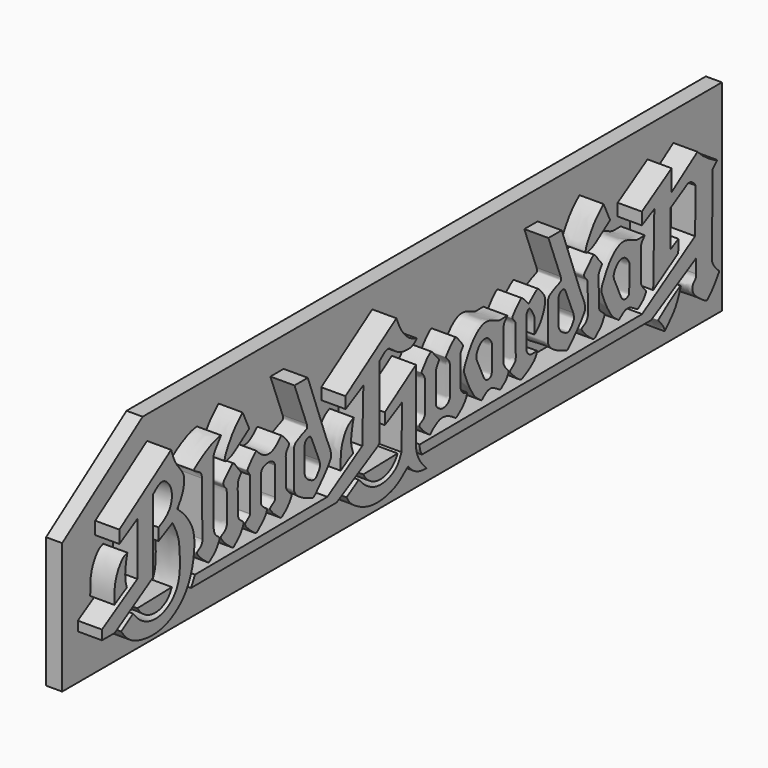
from build123d import *

# Parameters (mm, degrees)
F1_DEPTH = 6
F3_DEPTH = 4


with BuildPart() as f1:
    # F0 (on Right) → F1 (new body)
    with BuildSketch(Plane.YZ):
        with BuildLine():
            Line((-84.7309954264, 8.2328420567), (-84.7309954264, 5.0792008141))
            Line((-84.7309954264, 5.0792008141), (-79.1306622126, 8.3093828024))
            Line((-79.1306622126, 8.3093828024), (-79.1306622126, -4.8412360748))
            Line((-79.1306622126, -4.8412360748), (-90.1365183093, -11.4466186179))
            Line((-90.1365183093, -11.4466186179), (-90.1365183093, -13.8046836046))
            Line((-90.1365183093, -13.8046836046), (-86.1686222055, -13.8046836046))
            Line((-86.1686222055, -13.8046836046), (-74.2875985601, -6.503750713))
            Line((-74.2875985601, -6.503750713), (-74.2875985601, 11.6509030076))
            add(Edge.make_bspline(
                [(-74.2875985601, 11.6509030076), (-73.6770413389, 12.1872054593), (-72.5645492563, 13.1643984407), (-70.7850166705, 13.5392047347), (-68.2985762895, 11.1995753503), (-68.2558259198, 6.9454701251), (-70.6824470038, 4.6531191112), (-71.9849036134, 4.0415345668), (-72.5665069916, 3.7684355365)],
                knots=[0, 0, 0, 0, 0.1565342701, 0.285220009, 0.4640966276, 0.669678292, 0.8524970276, 1, 1, 1, 1], degree=3))
            Line((-72.5665069916, 3.7684355365), (-72.5665069916, 0.7612194485))
            Line((-72.5665069916, 0.7612194485), (-68.2305298545, 2.9991474902))
            add(Edge.make_bspline(
                [(-80.4735846617, -11.9029415337), (-79.7877134513, -12.7400023358), (-78.3288210959, -14.5204847162), (-74.2505011058, -16.3174080883), (-69.3162018574, -15.2070625251), (-65.8052000731, -11.1370701219), (-65.9050690901, -4.8608956053), (-66.2272665967, -0.6926975539), (-67.5658776427, 1.7742495819), (-68.2305298545, 2.9991474902)],
                knots=[0, 0, 0, 0, 0.1228895466, 0.2613940014, 0.4082955917, 0.5588208746, 0.7252034285, 0.8635569685, 1, 1, 1, 1], degree=3))
            Line((-80.4735846617, -11.9029415337), (-84.1859184005, -14.2765204919))
            add(Edge.make_bspline(
                [(-66.7487211325, 5.449245541), (-65.9816964164, 4.7701727584), (-64.3012645765, 3.2824299238), (-61.6110302694, -0.6550175088), (-61.267551604, -4.8358337652), (-61.9539087788, -9.6992858235), (-64.1676496599, -14.7178351878), (-69.1736645659, -18.4710581517), (-74.9657284077, -19.5033086839), (-81.5561561095, -17.9067465883), (-83.3702052624, -15.402562618), (-84.1859184005, -14.2765204919)],
                knots=[0, 0, 0, 0, 0.0903003946, 0.197834118, 0.2995790035, 0.4097711655, 0.5260204849, 0.6482729982, 0.7696947904, 0.8964399697, 1, 1, 1, 1], degree=3))
            add(Edge.make_bspline(
                [(-68.640371392, 19.1493489282), (-68.2366150354, 17.9298411728), (-67.4577846012, 15.5774577638), (-65.1038417423, 13.1042238367), (-64.3512403991, 11.0862629076), (-65.0617972814, 7.7823809992), (-66.1954018279, 6.2145254252), (-66.7487211325, 5.449245541)],
                knots=[0, 0, 0, 0, 0.2245199877, 0.4330903938, 0.5978615967, 0.8037137886, 1, 1, 1, 1], degree=3))
            Line((-68.640371392, 19.1493489282), (-84.7309954264, 8.2328420567))
        make_face()
    extrude(amount=F1_DEPTH)



with BuildPart() as f1b:
    # F0 (on Right) → F1, piece 2 (new body)
    with BuildSketch(Plane.YZ):
        with BuildLine():
            Line((-68.4009097316, -10.9817396415), (-79.1359744766, -11.2614810033))
            add(Edge.make_bspline(
                [(-68.4009097316, -10.9817396415), (-68.7800779618, -11.7310047208), (-69.5794552854, -13.3106347265), (-72.5748688801, -14.7073932458), (-75.7487166243, -14.3731517811), (-78.0241300236, -12.8475968844), (-78.7865365911, -11.7599760744), (-79.1359744766, -11.2614810033)],
                knots=[0, 0, 0, 0, 0.195690164, 0.4125616734, 0.6304014073, 0.8305998975, 1, 1, 1, 1], degree=3))
        make_face()
    extrude(amount=F1_DEPTH)


with BuildPart() as f1c:
    # F0 (on Right) → F1, piece 3 (new body)
    with BuildSketch(Plane.YZ):
        with BuildLine():
            Line((-86.2847618558, -7.6147258779), (-82.3990233042, -5.3902819319))
            add(Edge.make_bspline(
                [(-82.3990233042, -5.3902819319), (-82.5487475722, -4.9462154411), (-82.9035389694, -3.8939413315), (-82.9784371707, -0.9818316887), (-82.4857884723, 1.0945263539), (-82.2300813892, 2.1722506235)],
                knots=[0, 0, 0, 0, 0.2598930359, 0.615850821, 1, 1, 1, 1], degree=3))
            add(Edge.make_bspline(
                [(-86.2847618558, -7.6147258779), (-86.300358225, -6.9093341788), (-86.3345526471, -5.3627907951), (-86.0438231425, -2.2118548216), (-84.7210882989, 0.3900523163), (-83.4334528555, 1.8208679727), (-82.6011272368, 2.0639057963), (-82.2300813892, 2.1722506235)],
                knots=[0, 0, 0, 0, 0.2008436881, 0.4403418376, 0.671264154, 0.8534515003, 1, 1, 1, 1], degree=3))
        make_face()
    extrude(amount=F1_DEPTH)


with BuildPart() as f1d:
    # F0 (on Right) → F1, piece 4 (new body)
    with BuildSketch(Plane.YZ):
        with BuildLine():
            add(Edge.make_bspline(
                [(-59.1079570153, 9.055748439), (-59.1147978988, 9.4271617155), (-59.1286413937, 10.1787689921), (-60.0998720969, 10.8704526238), (-61.0600895505, 11.3373926927), (-61.7621835569, 11.8701383467), (-60.4832258977, 12.7418655089), (-58.3067534941, 14.2581264831), (-54.9374520356, 15.8274767579), (-53.6433314114, 15.9526502787), (-53.1153283813, 16.0037212508)],
                knots=[0, 0, 0, 0, 0.1034452608, 0.2093361107, 0.3171300918, 0.3940521526, 0.5013408021, 0.6724526514, 0.8663602223, 1, 1, 1, 1], degree=3))
            Line((-59.1079570153, 9.055748439), (-58.9111126759, -4.413704065))
            add(Edge.make_bspline(
                [(-58.9111126759, -4.413704065), (-58.939373306, -4.7610201216), (-58.9992479538, -5.4968645281), (-60.1154798954, -6.2262329503), (-60.763963063, -6.5330319019), (-60.4115449387, -7.1998891199), (-59.7660644067, -7.892126517), (-58.9818172008, -8.7782166106), (-57.4303028197, -9.9539605116), (-56.9958322928, -10.3232994428), (-56.3394527837, -9.8684578048), (-54.7933545131, -8.7671504807), (-53.7264431634, -6.8915375441), (-53.5194572234, -6.3243786199), (-53.8051428992, -5.9055951348), (-54.5669534537, -5.4134587683), (-55.1354626549, -4.7085806105), (-55.3652396775, -3.8356273737), (-55.4311038063, -3.4486053864), (-55.460268239, -3.2772332461)],
                knots=[0, 0, 0, 0, 0.0614896478, 0.1302756165, 0.1764452992, 0.2226326339, 0.2816632221, 0.3499567614, 0.4344892419, 0.475886674, 0.5243136042, 0.609877147, 0.6989898158, 0.7425542477, 0.7821814834, 0.839752922, 0.8978878036, 0.9547850349, 1, 1, 1, 1], degree=3))
            Line((-55.460268239, -3.2772332461), (-55.460268239, 11.9217865603))
            add(Edge.make_bspline(
                [(-53.1153283813, 16.0037212508), (-53.3595527635, 15.6728727317), (-53.88578301, 14.9599934679), (-54.9560810347, 13.6201510512), (-55.4834471501, 12.6607107976), (-55.4674251609, 12.149943227), (-55.460268239, 11.9217865603)],
                knots=[0, 0, 0, 0, 0.2637696283, 0.5683443859, 0.8071821475, 1, 1, 1, 1], degree=3))
        make_face()
    extrude(amount=F1_DEPTH)


with BuildPart() as f1e:
    # F0 (on Right) → F1, piece 5 (new body)
    with BuildSketch(Plane.YZ):
        with BuildLine():
            Line((-44.3796008625, 13.9470164167), (-46.4298665323, 18.2986006575))
            add(Edge.make_bspline(
                [(-46.4298665323, 18.2986006575), (-46.798961288, 17.9678812707), (-47.6285006371, 17.2245904474), (-49.3731421978, 15.3702686626), (-50.405393918, 13.6886264223), (-51.6736046269, 11.5708317256), (-51.9413158224, 10.6057702713), (-52.1253728152, 9.7182706417), (-50.9982769114, 9.806567105), (-49.5661061756, 10.3574528657), (-48.257989822, 11.1636776354), (-46.7740542865, 12.2724063494), (-45.448015214, 13.2301761375), (-44.7196748936, 13.7188476701), (-44.3796008625, 13.9470164167)],
                knots=[0, 0, 0, 0, 0.0850588996, 0.19116962, 0.2889341444, 0.3931016479, 0.4623128318, 0.5156066694, 0.5771834712, 0.6623150608, 0.7462599244, 0.837957546, 0.9243397228, 1, 1, 1, 1], degree=3))
        make_face()
    extrude(amount=F1_DEPTH)


with BuildPart() as f1f:
    # F0 (on Right) → F1, piece 6 (new body)
    with BuildSketch(Plane.YZ):
        with BuildLine():
            add(Edge.make_bspline(
                [(-49.3588164248, 8.3401676702), (-49.6752054941, 8.3917952679), (-50.4059514531, 7.5688558241), (-51.431765246, 6.4617284351), (-53.0282091999, 5.1110999973), (-51.2963093829, 3.6761626498), (-51.442316327, 2.8655372027), (-51.1408052109, -4.0475212956), (-51.4324963404, -4.5656454816), (-51.8756528924, -5.6150223479), (-53.5600648271, -6.10190539), (-52.822321505, -7.0488680871), (-51.5045333484, -8.5834499841), (-50.3849461825, -9.3287643378), (-49.3942025371, -10.2943468589), (-48.6103415681, -9.4433947574), (-47.0002689914, -8.1840248219), (-46.3329729175, -6.5333763931), (-45.8667319949, -5.908402123), (-47.130309314, -5.0383974843), (-47.7841986068, -4.3651760891), (-47.8497834408, -3.2663674976), (-48.0064092342, 3.1032153309), (-47.8740772165, 3.8324759565), (-47.2455779169, 4.8600860891), (-46.9181073426, 5.142552279), (-46.9635361123, 5.6656047884), (-48.2113605316, 6.8192766042), (-48.9597689885, 8.2750520814), (-49.3588164248, 8.3401676702)],
                knots=[0, 0, 0, 0, 0.033526546, 0.0744404801, 0.1139108976, 0.1533813173, 0.1846242566, 0.2647456302, 0.2904681605, 0.3217637461, 0.3583069445, 0.3860968733, 0.4308974156, 0.4683899973, 0.5008471631, 0.5302733896, 0.5754602709, 0.6166968715, 0.6400030508, 0.6758935707, 0.7049957837, 0.7382171672, 0.8157415128, 0.8452799632, 0.877522246, 0.8972757917, 0.9164561684, 0.9577144613, 1, 1, 1, 1], degree=3))
        make_face()
    extrude(amount=F1_DEPTH)


with BuildPart() as f1g:
    # F0 (on Right) → F1, piece 7 (new body)
    with BuildSketch(Plane.YZ):
        with BuildLine():
            add(Edge.make_bspline(
                [(-33.0321542718, 3.3449191569), (-32.9781755654, 3.6504588722), (-32.8680101704, 4.2740363098), (-32.1822159462, 5.0856620235), (-31.9559938242, 5.3812546431), (-32.0218477707, 5.8185962713), (-33.1544060689, 7.2298294678), (-33.9923202877, 8.0585300916), (-34.2885126598, 8.3417109615), (-34.7220632441, 8.1163718722), (-35.3602261314, 7.332982965), (-36.5410381901, 6.4400963953), (-37.600005655, 5.9505381921), (-38.7806136124, 5.9185562893), (-40.1589958515, 6.357803413), (-41.3380376509, 7.2830695412), (-41.8448851807, 7.9046673754), (-41.9906708665, 8.0653094563), (-42.1597175328, 8.1487170936), (-42.4318409241, 7.9819011985), (-43.1874572495, 7.3227796145), (-43.8883955709, 6.5112071363), (-44.5908873341, 5.633204688), (-44.8822002145, 5.2317567627), (-45.0046517611, 5.0313794229), (-44.8129830118, 4.7072942583), (-44.5285119025, 4.2386310319), (-44.3233731145, 3.9909746092), (-44.188027932, 3.7659086879), (-44.1172174909, 3.6481577872)],
                knots=[0, 0, 0, 0, 0.0431269326, 0.0880179589, 0.1134424571, 0.1398764869, 0.1996251257, 0.2488490891, 0.2737010234, 0.3011121683, 0.3456818847, 0.3998366761, 0.4471681111, 0.4940048162, 0.5470782897, 0.6017359578, 0.6402004223, 0.6598880589, 0.6769968342, 0.700153791, 0.7439443974, 0.7914437451, 0.8382804823, 0.8688084908, 0.8880175134, 0.9139950987, 0.9470569417, 0.9723010362, 1, 1, 1, 1], degree=3))
            Line((-44.1172174909, 3.6481577872), (-44.1172174909, -4.8088339655))
            add(Edge.make_bspline(
                [(-40.7478973069, -3.6632650563), (-40.7263199263, -3.892908787), (-40.6785822295, -4.400971512), (-39.899551984, -5.0708756414), (-39.1605429573, -5.6949920992), (-38.7567162061, -5.8492414962), (-38.9630521857, -6.3590844266), (-39.3970452976, -7.4757988652), (-41.4082617283, -9.2553083449), (-42.0243633982, -9.7708437509), (-42.374817708, -9.7400684534), (-42.904537037, -9.5087366991), (-45.1932029595, -7.4712922669), (-45.6235677836, -6.7799177295), (-45.7023903975, -6.3462598422), (-45.2364565565, -6.0087597698), (-44.5420049796, -5.4038877128), (-44.0545479167, -5.1226255011), (-44.0986415561, -4.9018451462), (-44.1172174909, -4.8088339655)],
                knots=[0, 0, 0, 0, 0.0549634673, 0.1216009202, 0.187563015, 0.2253822094, 0.2673131696, 0.340922318, 0.4501662746, 0.5074462755, 0.5412726086, 0.5910083925, 0.7069302061, 0.7677808506, 0.8056418104, 0.8535209913, 0.9188957162, 0.9658320813, 1, 1, 1, 1], degree=3))
            Line((-40.7478973069, -3.6632650563), (-40.7478973069, 2.6710551201))
            add(Edge.make_bspline(
                [(-40.7478973069, 2.6710551201), (-40.6374030845, 2.9935812125), (-40.4029253005, 3.6780079803), (-39.1189661085, 4.0770367161), (-37.8110145046, 4.2015850887), (-36.6461472756, 3.5795098874), (-36.4345531445, 2.9178342087), (-36.3340876796, 2.6036688095)],
                knots=[0, 0, 0, 0, 0.1858828484, 0.3944586192, 0.6102710995, 0.8149556655, 1, 1, 1, 1], degree=3))
            Line((-36.3340876796, 2.6036688095), (-36.3340876796, -4.3371288603))
            add(Edge.make_bspline(
                [(-32.8939385512, -3.7697052149), (-32.7984547166, -3.9842484899), (-32.5975140322, -4.4357434754), (-32.0322874749, -5.0786459223), (-31.4277399723, -5.5993376492), (-31.0806973698, -5.7919039149), (-31.2940290888, -6.2721138378), (-31.8258062359, -7.3670275896), (-33.2063117015, -8.834759033), (-34.036716204, -9.3556357012), (-34.4695680525, -9.7046936412), (-34.8207881226, -9.4037893286), (-35.6771230406, -8.7313053733), (-36.9457872526, -7.7487491506), (-37.7737794692, -6.5961724385), (-38.0254923815, -6.2728806549), (-37.7045746187, -5.9172694652), (-36.945657289, -5.4595443475), (-36.2407302554, -4.9260559845), (-36.3487250268, -4.5539488093), (-36.33862802, -4.404383969), (-36.3340876796, -4.3371288603)],
                knots=[0, 0, 0, 0, 0.0518932284, 0.1092065571, 0.1644154239, 0.198617773, 0.2374480323, 0.306059988, 0.3939317135, 0.4554313512, 0.496137477, 0.5330361798, 0.5966599219, 0.6770902414, 0.7496607473, 0.7840527615, 0.8216699332, 0.8817792722, 0.9373120838, 0.9718110045, 1, 1, 1, 1], degree=3))
            Line((-32.8939385512, -3.7697052149), (-33.0321542718, 3.3449191569))
        make_face()
    extrude(amount=F1_DEPTH)


with BuildPart() as f1h:
    # F0 (on Right) → F1, piece 8 (new body)
    with BuildSketch(Plane.YZ):
        with BuildLine():
            Line((-30.3102336624, 17.6546637403), (-26.5067197182, 7.6772476049))
            add(Edge.make_bspline(
                [(-26.5067197182, 7.6772476049), (-26.4473762315, 7.4753106944), (-26.3371304149, 7.100160853), (-26.3816821785, 6.5315032302), (-27.5928674228, 6.210876395), (-28.8080759493, 5.5930686752), (-29.9202396114, 5.1015434428), (-30.4930514164, 4.2700178232), (-30.3893570751, 3.4746840447), (-30.4220517127, -5.1470391845), (-30.4442418305, -5.4382441426), (-29.812255446, -6.8009378276), (-27.204598765, -8.3377688994), (-25.1212833745, -9.1227497856), (-24.7291392812, -9.2541620707), (-24.2705323933, -9.2495859391), (-22.8726787655, -7.7520537301), (-20.6853353775, -5.4048813923), (-18.9742340121, -3.0284954935), (-18.8885160468, -2.3203080185), (-19.0672435888, -1.1385717074), (-19.5033151296, -0.0094099763), (-20.046605225, 1.2237471775), (-20.3550211885, 1.923788196)],
                knots=[0, 0, 0, 0, 0.0309594908, 0.057515231, 0.099705843, 0.1476297936, 0.1913865155, 0.2272024934, 0.2669290492, 0.3821334541, 0.4075600956, 0.4513162432, 0.522660494, 0.581253142, 0.6048785146, 0.6281856603, 0.6823882604, 0.7575263213, 0.8236983851, 0.8560477534, 0.8977595694, 0.9419599562, 1, 1, 1, 1], degree=3))
            Line((-20.3550211885, 1.923788196), (-26.1862776973, 17.6546637403))
            Line((-26.1862776973, 17.6546637403), (-30.3102336624, 17.6546637403))
        make_face()
        with BuildLine():
            add(Edge.make_bspline(
                [(-22.6185578652, -1.8594370022), (-22.553845701, -2.0956501595), (-22.4185868882, -2.5893735826), (-22.2068198039, -3.4587269351), (-23.5776247458, -5.2281390182), (-23.9769508215, -5.4064707998), (-24.6461640789, -5.4529381716), (-25.6096519993, -4.9793627986), (-26.4942916034, -4.4424179309), (-27.1865382602, -3.2996617903), (-27.1796526979, -2.7334497834), (-27.1766125955, -2.4834567712)],
                knots=[0, 0, 0, 0, 0.0976908507, 0.2041895623, 0.3701041977, 0.4457024852, 0.5340065638, 0.6515779739, 0.7697629391, 0.8983461042, 1, 1, 1, 1], degree=3))
            Line((-27.1766125955, -2.4834567712), (-27.1766125955, 3.1869810509))
            add(Edge.make_bspline(
                [(-27.1766125955, 3.1869810509), (-27.1333056014, 3.4448610548), (-27.0448468383, 3.9716061361), (-26.356927832, 4.5123547578), (-25.3551449236, 4.6104805467), (-25.1186573707, 4.1239440167), (-25.006109456, 3.8923941055)],
                knots=[0, 0, 0, 0, 0.2452716263, 0.5009912393, 0.7625143704, 1, 1, 1, 1], degree=3))
            Line((-25.006109456, 3.8923941055), (-22.6185578652, -1.8594370022))
        make_face(mode=Mode.SUBTRACT)
    extrude(amount=F1_DEPTH)


with BuildPart() as f1i:
    # F0 (on Right) → F1, piece 9 (new body)
    with BuildSketch(Plane.YZ):
        with BuildLine():
            Line((-12.2663784572, -4.7095377495), (-12.0797768035, -4.6469118943))
            add(Edge.make_bspline(
                [(-12.0797768035, -4.6469118943), (-12.3203825434, -3.9143857075), (-12.8124155026, -2.4163872499), (-12.6909836965, -0.2740236108), (-12.0284534216, 2.9945108894), (-11.8084169413, 3.1691038366), (-12.3311502285, 2.9893991409), (-13.9489941095, 2.0223646042), (-15.1229233188, 0.0023505211), (-15.8273578963, -2.0833465317), (-15.963864585, -4.0906500917), (-16.0164535724, -6.3648587952), (-15.9965722923, -6.6805321287), (-16.1086319214, -6.9831756407), (-13.7572398754, -5.3908999962), (-12.7434857745, -4.9275881395), (-12.2663784572, -4.7095377495)],
                knots=[0, 0, 0, 0, 0.0889767878, 0.1819553939, 0.2876230775, 0.3060413524, 0.3411303209, 0.4227116068, 0.5144047062, 0.6014055236, 0.6890329402, 0.7768914614, 0.8091212349, 0.8262095049, 0.918208255, 1, 1, 1, 1], degree=3))
        make_face()
    extrude(amount=F1_DEPTH)


with BuildPart() as f1j:
    # F0 (on Right) → F1, piece 10 (new body)
    with BuildSketch(Plane.YZ):
        with BuildLine():
            Line((1.7302133343, -10.2405186308), (-8.9168358394, -10.510063873))
            ThreePointArc((-8.9168358394, -10.510063873), (-3.5081151916, -13.7405394838), (1.7302133343, -10.2405186308))
        make_face()
    extrude(amount=F1_DEPTH)


with BuildPart() as f1k:
    # F0 (on Right) → F1, piece 11 (new body)
    with BuildSketch(Plane.YZ):
        with BuildLine():
            Line((-61.2304635146, -11.1786799071), (-62.4434180357, -13.6045898808))
            Line((-62.4434180357, -13.6045898808), (-17.1729378202, -13.2762409313))
            Line((-17.1729378202, -13.2762409313), (-4.4338885494, -6.1835242933))
            add(Edge.make_bspline(
                [(-4.4338885494, -6.1835242933), (-4.2677907177, -6.061275172), (-3.9355574672, -5.8167492653), (-3.8710192002, -5.4091751525), (-3.8387464159, -5.2053650407)],
                knots=[0, 0, 0, 0, 0.4999434328, 1, 1, 1, 1], degree=3))
            Line((-3.8387464159, -5.2053650407), (-3.8387464159, 12.2814018713))
            add(Edge.make_bspline(
                [(-3.8387464159, 12.2814018713), (-3.203548133, 12.8240476789), (-2.2252011876, 13.6598431818), (-1.5622431488, 13.8050124653), (-0.8923270798, 13.8641227479), (-0.1236734276, 13.2520790059), (0.8995514994, 12.4322739208), (2.6571141164, 11.4004396176), (4.531584012, 11.2117636238), (6.2854841505, 11.231220529), (7.4759001982, 12.216611091), (7.5975605106, 12.4837495518), (7.7372053836, 12.6195328913), (5.7887663742, 13.0639801039), (4.1435616889, 14.6011802238), (2.7309571673, 16.2677870645), (1.5579465795, 18.9005843456), (1.3991310384, 19.3487495221), (1.3497843608, 19.4880020308)],
                knots=[0, 0, 0, 0, 0.0814978398, 0.1255248397, 0.1684789577, 0.2216669519, 0.2860421817, 0.3646997828, 0.4410098174, 0.5149233004, 0.5811942032, 0.6094916218, 0.6234507213, 0.6945928715, 0.7807475208, 0.865332679, 0.9581565832, 1, 1, 1, 1], degree=3))
            Line((1.3497843608, 19.4880020308), (-14.4862672902, 8.8785151023))
            Line((-14.4862672902, 8.8785151023), (-14.4134886362, 6.0037550019))
            Line((-14.4134886362, 6.0037550019), (-8.9168358394, 8.9610645982))
            Line((-8.9168358394, 8.9610645982), (-9.2585464739, -4.1433443813))
            Line((-9.2585464739, -4.1433443813), (-20.1110575148, -10.871902251))
            Line((-20.1110575148, -10.871902251), (-61.2304635146, -11.1786799071))
        make_face()
    extrude(amount=F1_DEPTH)


with BuildPart() as f1l:
    # F0 (on Right) → F1, piece 12 (new body)
    with BuildSketch(Plane.YZ):
        with BuildLine():
            Line((48.5943615637, 17.8489627751), (52.3978755078, 7.8715466397))
            add(Edge.make_bspline(
                [(52.3978755078, 7.8715466397), (52.4572189945, 7.6696097292), (52.5674648112, 7.2944598877), (52.5229130476, 6.725802265), (51.3117278033, 6.4051754298), (50.0965192767, 5.7873677099), (48.9843556147, 5.2958424776), (48.4115438096, 4.464316858), (48.5152381509, 3.6689830794), (48.4825435133, -4.9527401497), (48.4603533955, -5.2439451078), (49.09233978, -6.6066387928), (51.699996461, -8.1434698647), (53.7833118515, -8.9284507508), (54.1754559448, -9.059863036), (54.6340628328, -9.0552869043), (56.0319164606, -7.5577546953), (58.2192598486, -5.2105823575), (59.930361214, -2.8341964587), (60.0160791792, -2.1260089837), (59.8373516372, -0.9442726727), (59.4012800964, 0.1848890585), (58.8579900011, 1.4180462122), (58.5495740376, 2.1180872308)],
                knots=[0, 0, 0, 0, 0.0309594908, 0.057515231, 0.099705843, 0.1476297936, 0.1913865155, 0.2272024934, 0.2669290492, 0.3821334541, 0.4075600956, 0.4513162432, 0.522660494, 0.581253142, 0.6048785146, 0.6281856603, 0.6823882604, 0.7575263213, 0.8236983851, 0.8560477534, 0.8977595694, 0.9419599562, 1, 1, 1, 1], degree=3))
            Line((58.5495740376, 2.1180872308), (52.7183175287, 17.8489627751))
            Line((52.7183175287, 17.8489627751), (48.5943615637, 17.8489627751))
        make_face()
        with BuildLine():
            add(Edge.make_bspline(
                [(56.2860373608, -1.6651379675), (56.350749525, -1.9013511247), (56.4860083379, -2.3950745478), (56.6977754222, -3.2644279004), (55.3269704803, -5.0338399835), (54.9276444045, -5.212171765), (54.2584311472, -5.2586391368), (53.2949432268, -4.7850637638), (52.4103036226, -4.2481188961), (51.7180569658, -3.1053627555), (51.7249425281, -2.5391507487), (51.7279826305, -2.2891577365)],
                knots=[0, 0, 0, 0, 0.0976908507, 0.2041895623, 0.3701041977, 0.4457024852, 0.5340065638, 0.6515779739, 0.7697629391, 0.8983461042, 1, 1, 1, 1], degree=3))
            Line((51.7279826305, -2.2891577365), (51.7279826305, 3.3812800856))
            add(Edge.make_bspline(
                [(51.7279826305, 3.3812800856), (51.7712896247, 3.6391600895), (51.8597483878, 4.1659051708), (52.5476673941, 4.7066537926), (53.5494503024, 4.8047795815), (53.7859378554, 4.3182430514), (53.89848577, 4.0866931403)],
                knots=[0, 0, 0, 0, 0.2452716263, 0.5009912393, 0.7625143704, 1, 1, 1, 1], degree=3))
            Line((53.89848577, 4.0866931403), (56.2860373608, -1.6651379675))
        make_face(mode=Mode.SUBTRACT)
    extrude(amount=F1_DEPTH)


with BuildPart() as f1m:
    # F0 (on Right) → F1, piece 13 (new body)
    with BuildSketch(Plane.YZ):
        with BuildLine():
            Line((67.7558392487, 13.9805337848), (65.7055735788, 18.3321180256))
            add(Edge.make_bspline(
                [(65.7055735788, 18.3321180256), (65.3364788232, 18.0013986389), (64.506939474, 17.2581078155), (62.7622979134, 15.4037860307), (61.7300461932, 13.7221437905), (60.4618354842, 11.6043490937), (60.1941242887, 10.6392876395), (60.0100672959, 9.7517880099), (61.1371631998, 9.8400844731), (62.5693339356, 10.3909702339), (63.8774502892, 11.1971950035), (65.3613858247, 12.3059237176), (66.6874248972, 13.2636935056), (67.4157652176, 13.7523650383), (67.7558392487, 13.9805337848)],
                knots=[0, 0, 0, 0, 0.0850588996, 0.19116962, 0.2889341444, 0.3931016479, 0.4623128318, 0.5156066694, 0.5771834712, 0.6623150608, 0.7462599244, 0.837957546, 0.9243397228, 1, 1, 1, 1], degree=3))
        make_face()
    extrude(amount=F1_DEPTH)


with BuildPart() as f1n:
    # F0 (on Right) → F1, piece 14 (new body)
    with BuildSketch(Plane.YZ):
        with BuildLine():
            add(Edge.make_bspline(
                [(62.7766236863, 8.3736850383), (62.4602346171, 8.425312636), (61.7294886581, 7.6023731922), (60.7036748652, 6.4952458033), (59.1072309113, 5.1446173654), (60.8391307283, 3.7096800179), (60.6931237842, 2.8990545708), (60.9946349002, -4.0140039274), (60.7029437708, -4.5321281134), (60.2597872188, -5.5815049797), (58.5753752841, -6.0683880218), (59.3131186062, -7.015350719), (60.6309067628, -8.5499326159), (61.7504939286, -9.2952469697), (62.7412375741, -10.2608294908), (63.525098543, -9.4098773892), (65.1351711198, -8.1505074538), (65.8024671937, -6.4998590249), (66.2687081162, -5.8748847549), (65.0051307972, -5.0048801162), (64.3512415043, -4.331658721), (64.2856566704, -3.2328501294), (64.129030877, 3.136732699), (64.2613628947, 3.8659933246), (64.8898621942, 4.8936034572), (65.2173327686, 5.1760696471), (65.1719039989, 5.6991221565), (63.9240795796, 6.8527939723), (63.1756711227, 8.3085694495), (62.7766236863, 8.3736850383)],
                knots=[0, 0, 0, 0, 0.033526546, 0.0744404801, 0.1139108976, 0.1533813173, 0.1846242566, 0.2647456302, 0.2904681605, 0.3217637461, 0.3583069445, 0.3860968733, 0.4308974156, 0.4683899973, 0.5008471631, 0.5302733896, 0.5754602709, 0.6166968715, 0.6400030508, 0.6758935707, 0.7049957837, 0.7382171672, 0.8157415128, 0.8452799632, 0.877522246, 0.8972757917, 0.9164561684, 0.9577144613, 1, 1, 1, 1], degree=3))
        make_face()
    extrude(amount=F1_DEPTH)


with BuildPart() as f1o:
    # F0 (on Right) → F1, piece 15 (new body)
    with BuildSketch(Plane.YZ):
        with BuildLine():
            Line((3.1174311149, 0.3776864059), (2.93705349, -10.4458445249))
            add(Edge.make_bspline(
                [(-10.3593711401, -11.1108169598), (-9.7274341167, -11.804506121), (-8.3816897599, -13.287294488), (-5.2302062263, -15.0410340119), (-1.5905646631, -14.9564640077), (1.809291643, -13.2626303689), (2.5496824632, -11.2946999205), (2.93705349, -10.4458445249)],
                knots=[0, 0, 0, 0, 0.1885308176, 0.3945235243, 0.6033081114, 0.8119342854, 1, 1, 1, 1], degree=3))
            Line((-10.3593711401, -11.1108169598), (-14.1322050043, -13.4029017327))
            add(Edge.make_bspline(
                [(-14.1322050043, -13.4029017327), (-13.8210922396, -13.9833134383), (-13.1012304701, -15.2426296592), (-10.4975325677, -17.0190973956), (-7.4500788042, -18.2932301468), (-3.9853975227, -18.5617515689), (-0.8482960471, -18.0116392695), (2.0532702638, -16.8923375574), (4.3781128033, -14.8166082685), (4.8926925815, -14.5338564141), (5.0603300184, -14.4417212842)],
                knots=[0, 0, 0, 0, 0.1098156058, 0.2446033134, 0.3852780849, 0.5274886175, 0.6638385223, 0.8021052406, 0.9354880354, 1, 1, 1, 1], degree=3))
            add(Edge.make_bspline(
                [(7.4233478368, -10.2025150819), (7.4316067616, -10.8945611297), (7.4499933829, -12.4352445682), (8.7854432247, -15.1800340492), (10.5364973814, -16.9952619165), (10.7556214675, -17.1249914171), (10.5170958907, -17.0959808458), (9.0077662941, -17.1713449294), (6.5773093719, -16.2440740302), (5.5557859825, -15.0303821749), (5.0603300184, -14.4417212842)],
                knots=[0, 0, 0, 0, 0.1491311742, 0.3320067081, 0.4893217185, 0.5230216148, 0.5581190137, 0.6797757862, 0.8446858895, 1, 1, 1, 1], degree=3))
            Line((7.4233478368, -10.2025150819), (7.4233478368, 6.8466270777))
            Line((7.4233478368, 6.8466270777), (-2.2525047683, 0.3776864059))
            Line((-2.2525047683, 0.3776864059), (-2.2525047683, -2.4421907993))
            Line((-2.2525047683, -2.4421907993), (3.1174311149, 0.3776864059))
        make_face()
    extrude(amount=F1_DEPTH)


with BuildPart() as f1p:
    # F0 (on Right) → F1, piece 16 (new body)
    with BuildSketch(Plane.YZ):
        with BuildLine():
            add(Edge.make_bspline(
                [(10.1868178896, -4.8193178637), (10.1626679555, -3.5826014398), (10.2406806461, 1.653620789), (10.2653565833, 2.4202934211), (10.1846342744, 2.8822401473), (9.7601789089, 3.7317198264), (9.3043373378, 4.1360098661), (9.015990189, 4.4848322921), (9.472560925, 4.8505556403), (10.704283641, 6.8057703646), (11.7531039965, 7.5543105446), (12.1657060263, 7.8360097375), (12.6271865843, 7.5013537166), (14.1739249463, 5.4388115305), (14.7614452913, 5.0144566851), (14.0210679235, 4.0529160333), (13.5436561194, 3.1216395375), (13.5358828958, -0.709109238), (13.6525241408, -3.9215127191), (13.6107944612, -4.5330571104), (14.0208259758, -5.3013573431), (15.2623517543, -6.1144883158), (16.3916858657, -6.110149736), (17.5351803676, -5.5644742357), (18.07479316, -4.6736516493), (17.9347669581, -3.2189993764), (17.90315843, 2.1361648613), (17.9975621733, 2.7632316791), (17.6893726186, 3.6615916852), (16.8495263048, 4.4561249804), (16.7024120588, 4.7792084583), (17.3072867617, 5.5634977399), (18.103377438, 6.5658139862), (19.2762669516, 7.6433020198), (19.5830566094, 7.843089978), (19.9760650202, 7.8435320892), (20.8263482837, 6.8165109182), (21.5607072797, 5.9099962246), (21.9566397433, 5.3050031929), (22.1344766741, 5.08501269), (22.0036066505, 4.812084935), (21.427113968, 4.0498464332), (21.2808184587, 3.8195138944), (21.1818378347, 3.4994802102), (21.3228238044, -3.7723060674), (21.2487478051, -3.8609975243), (21.5446611744, -4.9237150142), (22.5075296468, -5.562162845), (23.1205413803, -5.6494683195), (23.2924480592, -5.5925648786), (23.287436023, -5.8931109152), (23.0342169658, -7.0046702523), (21.7248326352, -8.5367659591), (20.1338843358, -9.7430106734), (19.8359069271, -9.8744964566), (19.4355762384, -9.6426936028), (18.458219436, -8.8782837231), (16.8572327007, -8.1952350376), (15.8494957812, -8.0479268057), (14.5316682737, -8.0686990748), (12.2968363567, -9.6372491915), (12.0156981871, -10.1300649769), (11.7377059675, -10.2764905961), (11.0476638306, -9.7024995346), (9.7695867525, -8.7497842955), (8.7909871158, -7.4374063276), (8.4766814537, -7.1651408952), (8.4940988324, -6.6616424645), (9.4730695066, -6.2939723395), (10.2317809564, -5.4953641444), (10.1948290792, -5.229570322), (10.1868178896, -4.8193178637)],
                knots=[0, 0, 0, 0, 0.0365378634, 0.0496367853, 0.0587613798, 0.0726860213, 0.0842726416, 0.0925746479, 0.1022678132, 0.1243838934, 0.1410105424, 0.1498340897, 0.1598555622, 0.1831766118, 0.1943809601, 0.2085063872, 0.2232897981, 0.2517195892, 0.277577796, 0.2881435064, 0.3008877919, 0.3181354965, 0.3332980473, 0.3490820844, 0.3625575196, 0.3806506538, 0.4137157563, 0.4255170777, 0.4389726553, 0.4543729868, 0.4619976576, 0.4753337484, 0.4926297997, 0.5105479502, 0.5188115995, 0.5266924784, 0.5429721595, 0.5592433916, 0.5711997338, 0.5780706606, 0.5855903358, 0.5997849943, 0.6067655779, 0.6157050312, 0.654092307, 0.6611962724, 0.6751130878, 0.6908569335, 0.7017943962, 0.706634097, 0.7130445465, 0.7278912221, 0.7491460289, 0.7691483952, 0.776413512, 0.7852770016, 0.8014473099, 0.8205382266, 0.8347567965, 0.851263161, 0.8747623052, 0.885245648, 0.891842997, 0.9045233019, 0.9235336322, 0.9417592972, 0.9505511464, 0.9591608135, 0.9736355476, 0.9878793974, 1, 1, 1, 1], degree=3))
        make_face()
    extrude(amount=F1_DEPTH)


with BuildPart() as f1q:
    # F0 (on Right) → F1, piece 17 (new body)
    with BuildSketch(Plane.YZ):
        with BuildLine():
            add(Edge.make_bspline(
                [(36.8776176325, -6.2159576019), (37.1348331665, -6.0411353291), (38.3411661185, -5.1336041366), (38.5253968956, -4.2252767853), (38.4345557257, 2.8222206318), (38.3811327661, 3.235378818), (38.3375563739, 3.7104281659), (37.5647242683, 4.5458302129), (37.36927204, 4.7417809178), (37.2789156524, 5.1509603834), (39.1687356006, 7.3254899422), (39.9232590136, 7.9135192025), (40.2278997834, 8.0922916485), (40.6383450829, 7.9172528234), (41.8027798554, 6.6696601014), (42.2609119382, 6.0725986777), (42.5063190125, 5.9326688606), (42.6922831882, 6.1498661342), (44.0267198664, 7.3253354894), (44.8982512934, 7.9435254206), (45.3058083048, 8.1419803116), (45.6794781468, 7.7736365431), (46.5420810159, 6.8266312498), (47.3940330517, 5.8026294595), (47.6723945109, 4.4394263125), (47.2573078404, 2.685324049), (46.5458852732, 1.0482448607), (45.6819634575, -0.3065119465), (44.4662243126, -1.3370279843), (44.2461412678, -1.5921677957), (44.2926493971, -1.323826161), (44.3005997685, 0.9430113564), (44.4065741521, 2.2424513296), (43.4486692324, 4.032406233), (42.8655811618, 4.7282617271), (42.5392662145, 4.8700573541), (42.1129839911, 4.5589827752), (41.7035749799, 3.8923474904), (41.7350607379, 2.8603994703), (41.7063311464, -3.8855590969), (41.7475197155, -4.04837037), (42.1669393127, -4.8968313142), (42.961667576, -5.5144854733), (43.9722664075, -5.405870956), (44.8917532268, -5.4423986459), (45.1505111364, -5.4181104475), (45.0642435383, -5.6201560789), (44.6834743088, -6.6424697885), (43.7282275834, -7.6077261581), (42.5004411193, -8.5061060501), (41.1561570853, -9.2750994545), (40.2585114521, -9.6676858015), (40.0629706769, -9.6767778531), (39.7053108884, -9.5805705259), (38.6175169564, -8.7441684293), (37.9926058385, -8.1292096), (37.1649180173, -7.2309367112), (36.6484002855, -6.7044390494), (36.6223339224, -6.5299908724), (36.7002755005, -6.3240372711), (36.7812913945, -6.2814278774), (36.8776176325, -6.2159576019)],
                knots=[0, 0, 0, 0, 0.0222799787, 0.0419211334, 0.0882757472, 0.1001441467, 0.111553989, 0.1303572189, 0.1395113947, 0.1491579682, 0.1790367076, 0.1970758854, 0.2061734115, 0.2171106454, 0.2405056963, 0.256235962, 0.2640631696, 0.2723394332, 0.2960706619, 0.3151256991, 0.325532534, 0.3372369382, 0.3574188227, 0.3779618902, 0.3982695815, 0.4219090115, 0.4455422185, 0.4686069744, 0.4908358698, 0.4986671386, 0.5051279941, 0.5313935781, 0.5531517518, 0.5778421745, 0.5944895619, 0.6037977056, 0.615970645, 0.6304312986, 0.650386803, 0.6957259836, 0.7044821831, 0.7206931861, 0.7382504017, 0.7561406491, 0.7732618421, 0.7805750068, 0.7869740824, 0.8050853975, 0.8260796718, 0.8480041463, 0.8706101398, 0.8874715368, 0.8946290047, 0.9047988265, 0.925287153, 0.9427076819, 0.9624258059, 0.9772106861, 0.9840881429, 0.9916562328, 1, 1, 1, 1], degree=3))
        make_face()
    extrude(amount=F1_DEPTH)


with BuildPart() as f1r:
    # F0 (on Right) → F1, piece 18 (new body)
    with BuildSketch(Plane.YZ):
        with BuildLine():
            add(Edge.make_bspline(
                [(9.2864082395, -13.5709700672), (9.1297598257, -13.2776505818), (8.8220001774, -12.7013798142), (8.5647124624, -11.7925560285), (8.5950446998, -11.3063370817), (8.60914115, -11.0803741528)],
                knots=[0, 0, 0, 0, 0.3568630654, 0.7011118008, 1, 1, 1, 1], degree=3))
            Line((9.2864082395, -13.5709700672), (80.5370979211, -13.0829374803))
            Line((80.5370979211, -13.0829374803), (94.4731407068, -5.2284632375))
            Line((94.4731407068, -5.2284632375), (94.4731407068, -8.6566937653))
            add(Edge.make_bspline(
                [(94.9015714429, 17.8849183457), (95.1950979936, 17.5832639549), (95.8755285311, 16.8839920874), (97.6210162909, 15.4268529357), (99.8885706124, 14.0625267252), (100.8624238185, 13.6449592476), (101.0574156505, 13.6169516551), (100.9354601111, 13.4994470965), (100.3003171939, 12.8541299204), (99.6439126458, 12.2234349164), (99.6034626156, 12.0718372492), (99.5393484025, 11.95431923), (99.4208450981, -7.2136420641), (99.4622802017, -7.4400031802), (99.3988496103, -8.0093629746), (99.8246801914, -8.9411093132), (101.0065982645, -10.4725872425), (101.7154595463, -10.8252804982), (101.5481854379, -11.3416300913), (99.553866941, -14.2737741015), (98.245036427, -15.5156663436), (97.8351762808, -15.8928448516), (97.2445828455, -15.6931467831), (94.8061058105, -13.9580368072), (93.4898518227, -12.5772027775), (93.3053140883, -11.4444664662), (93.4453672653, -10.393483447), (94.4694823708, -9.6650291506), (94.4719604516, -8.98200372), (94.4731407068, -8.6566937653)],
                knots=[0, 0, 0, 0, 0.0385498621, 0.0893633074, 0.1447146307, 0.1776369345, 0.188610289, 0.1986985553, 0.2313341493, 0.2634578241, 0.2739766332, 0.2875531186, 0.4324096489, 0.4559959836, 0.4775272709, 0.5116255681, 0.5586180748, 0.5855282425, 0.6059787472, 0.6690635122, 0.7152366039, 0.7367220933, 0.760307135, 0.8180900166, 0.8649026871, 0.8989270349, 0.9320397923, 0.9676320513, 1, 1, 1, 1], degree=3))
            Line((94.9015714429, 17.8849183457), (86.8678786061, 12.3199120598))
            Line((86.8678786061, 12.3199120598), (86.8678786061, 17.5501805233))
            Line((86.8678786061, 17.5501805233), (77.6207618616, 11.8178062575))
            Line((77.6207618616, 11.8178062575), (77.6207618616, 8.803272477))
            Line((77.6207618616, 8.803272477), (81.4977608822, 10.8088123115))
            Line((81.4977608822, 10.8088123115), (81.1463915012, -6.8048524236))
            Line((81.1463915012, -6.8048524236), (88.9222569964, -1.8789639262))
            Line((88.9222569964, -1.8789639262), (88.9750369094, 1.2524936782))
            Line((88.9750369094, 1.2524936782), (86.5928404234, -0.037380637))
            Line((86.5928404234, -0.037380637), (86.5928404234, 9.0339033367))
            Line((86.5928404234, 9.0339033367), (91.92359673, 12.1799184444))
            add(Edge.make_bspline(
                [(94.3139590523, 10.7700217949), (94.1550519987, 11.0014799365), (93.8203135753, 11.4890475528), (92.9379183856, 12.1868922832), (92.2574245117, 12.1822136346), (91.92359673, 12.1799184444)],
                knots=[0, 0, 0, 0, 0.3152554213, 0.6640869632, 1, 1, 1, 1], degree=3))
            Line((94.3139590523, 10.7700217949), (94.165096452, -0.2781059566))
            Line((94.165096452, -0.2781059566), (77.6922054789, -10.6337416483))
            Line((77.6922054789, -10.6337416483), (8.60914115, -11.0803741528))
        make_face()
    extrude(amount=F1_DEPTH)


with BuildPart() as f1s:
    # F0 (on Right) → F1, piece 19 (new body)
    with BuildSketch(Plane.YZ):
        with BuildLine():
            add(Edge.make_bspline(
                [(36.1653924189, -6.6152705377), (35.9563388109, -7.0298284833), (35.5323645585, -7.870578838), (34.3619028782, -8.7381209446), (33.6917094381, -9.3006748609), (33.2295756595, -9.0430179724), (32.3550553371, -8.5095635678), (31.3111654129, -7.8580455677), (30.528544006, -7.7421526585), (29.5261767308, -7.8787134266), (28.7084958064, -8.5805846727), (28.1283127037, -8.9133563529), (27.8716105537, -9.3741587315), (27.1920376097, -8.7727805742), (25.8343302742, -7.8904623035), (24.6166907886, -5.9267634677), (23.6718430009, -4.1923089667), (22.6401050436, -1.6899072343), (22.1614868942, -0.319895944), (23.2021875008, 1.7676417309), (24.2673446747, 3.8057634147), (25.8788586629, 5.8856362836), (27.8608712926, 7.2595850149), (29.7294556397, 7.4870567103), (31.6040896894, 6.7399504997), (33.243599091, 5.910944609), (34.5712875009, 6.0560164555), (35.5946742734, 6.0193651627), (35.8457033292, 6.1109846026), (35.7457588756, 5.8542311357), (35.1551982574, 5.2592114277), (34.7359957914, 4.7159301483), (34.6377998259, 3.8106143752), (34.654316929, 2.0080154876), (34.665221741, 0.8179156311)],
                knots=[0, 0, 0, 0, 0.0329551991, 0.0668352775, 0.091236281, 0.1094745893, 0.1379665963, 0.1689567783, 0.1934184891, 0.220821107, 0.2497067394, 0.2726402057, 0.2894637753, 0.3126498827, 0.3487208309, 0.3905666039, 0.4307993791, 0.4761342355, 0.508886623, 0.5497775863, 0.5928517293, 0.6379495962, 0.6806165004, 0.7177348544, 0.7571061283, 0.7945047197, 0.8269407816, 0.8548465828, 0.8658615219, 0.8772004611, 0.9030772731, 0.9259036736, 0.9510806158, 1, 1, 1, 1], degree=3))
            add(Edge.make_bspline(
                [(34.665221741, 0.8179156311), (34.6577635528, -0.7352562205), (34.6473037629, -2.913513299), (34.6886269033, -3.6417566384), (34.571254771, -4.1022762625), (35.3003359307, -5.2503008484), (35.9010178472, -5.8805879897), (36.2816472369, -6.2362570302), (36.2026576382, -6.4937786139), (36.1653924189, -6.6152705377)],
                knots=[0, 0, 0, 0, 0.2899435379, 0.4066334083, 0.5008689705, 0.6700972992, 0.8134533678, 0.9119921954, 1, 1, 1, 1], degree=3))
        make_face()
        with BuildLine():
            add(Edge.make_bspline(
                [(30.9958480499, -4.4582352539), (30.961389321, -4.875173378), (30.844088514, -5.1299970381), (29.9297944946, -5.5997757627), (28.7665139361, -5.2522721933), (28.053418748, -3.5335376693), (27.1638122659, -1.7679647057), (26.1915633084, 0.3642072472), (26.0986188026, 1.4054494201), (26.9822064291, 3.0006216307), (28.1591164671, 3.8676292913), (29.4709290078, 3.862229605), (30.4489462079, 3.1012046826), (31.1790506063, 1.7547183894), (30.9961693242, 1.3658554865), (31.0934226742, -3.2776176844), (30.9958480499, -4.4582352539)],
                knots=[0, 0, 0, 0, 0.0494425299, 0.1037490188, 0.1639079147, 0.2411234918, 0.3265314247, 0.414611705, 0.4732321167, 0.5499879487, 0.6201484602, 0.6834383193, 0.7489495127, 0.8168719398, 0.8599966852, 1, 1, 1, 1], degree=3))
        make_face(mode=Mode.SUBTRACT)
    extrude(amount=F1_DEPTH)


with BuildPart() as f1t:
    # F0 (on Right) → F1, piece 20 (new body)
    with BuildSketch(Plane.YZ):
        with BuildLine():
            add(Edge.make_bspline(
                [(78.8602739773, -6.3811863338), (78.6512203693, -6.7957442794), (78.2272461169, -7.6364946341), (77.0567844366, -8.5040367408), (76.3865909965, -9.0665906571), (75.9244572179, -8.8089337685), (75.0499368955, -8.2754793639), (74.0060469713, -7.6239613639), (73.2234255644, -7.5080684547), (72.2210582893, -7.6446292228), (71.4033773648, -8.3465004689), (70.8231942621, -8.6792721491), (70.5664921121, -9.1400745276), (69.8869191681, -8.5386963703), (68.5292118326, -7.6563780997), (67.311572347, -5.6926792639), (66.3667245593, -3.9582247629), (65.334986602, -1.4558230304), (64.8563684527, -0.0858117402), (65.8970690592, 2.0017259347), (66.9622262331, 4.0398476186), (68.5737402213, 6.1197204874), (70.5557528511, 7.4936692187), (72.4243371981, 7.7211409141), (74.2989712478, 6.9740347035), (75.9384806494, 6.1450288128), (77.2661690593, 6.2901006594), (78.2895558318, 6.2534493665), (78.5405848876, 6.3450688064), (78.440640434, 6.0883153396), (77.8500798158, 5.4932956315), (77.4308773498, 4.9500143521), (77.3326813843, 4.044698579), (77.3491984874, 2.2420996914), (77.3601032994, 1.0519998349)],
                knots=[0, 0, 0, 0, 0.0329551991, 0.0668352775, 0.091236281, 0.1094745893, 0.1379665963, 0.1689567783, 0.1934184891, 0.220821107, 0.2497067394, 0.2726402057, 0.2894637753, 0.3126498827, 0.3487208309, 0.3905666039, 0.4307993791, 0.4761342355, 0.508886623, 0.5497775863, 0.5928517293, 0.6379495962, 0.6806165004, 0.7177348544, 0.7571061283, 0.7945047197, 0.8269407816, 0.8548465828, 0.8658615219, 0.8772004611, 0.9030772731, 0.9259036736, 0.9510806158, 1, 1, 1, 1], degree=3))
            add(Edge.make_bspline(
                [(77.3601032994, 1.0519998349), (77.3526451112, -0.5011720167), (77.3421853213, -2.6794290952), (77.3835084617, -3.4076724346), (77.2661363294, -3.8681920586), (77.9952174891, -5.0162166445), (78.5958994056, -5.6465037859), (78.9765287953, -6.0021728264), (78.8975391966, -6.25969441), (78.8602739773, -6.3811863338)],
                knots=[0, 0, 0, 0, 0.2899435379, 0.4066334083, 0.5008689705, 0.6700972992, 0.8134533678, 0.9119921954, 1, 1, 1, 1], degree=3))
        make_face()
        with BuildLine():
            add(Edge.make_bspline(
                [(73.6907296083, -4.2241510501), (73.6562708794, -4.6410891741), (73.5389700724, -4.8959128343), (72.624676053, -5.3656915589), (71.4613954945, -5.0181879895), (70.7483003065, -3.2994534655), (69.8586938243, -1.5338805018), (68.8864448668, 0.598291451), (68.793500361, 1.6395336239), (69.6770879875, 3.2347058345), (70.8539980255, 4.1017134951), (72.1658105662, 4.0963138089), (73.1438277663, 3.3352888865), (73.8739321648, 1.9888025933), (73.6910508826, 1.5999396903), (73.7883042326, -3.0435334805), (73.6907296083, -4.2241510501)],
                knots=[0, 0, 0, 0, 0.0494425299, 0.1037490188, 0.1639079147, 0.2411234918, 0.3265314247, 0.414611705, 0.4732321167, 0.5499879487, 0.6201484602, 0.6834383193, 0.7489495127, 0.8168719398, 0.8599966852, 1, 1, 1, 1], degree=3))
        make_face(mode=Mode.SUBTRACT)
    extrude(amount=F1_DEPTH)


with BuildPart() as f1u:
    # F0 (on Right) → F1, piece 21 (new body)
    with BuildSketch(Plane.YZ):
        with BuildLine():
            Line((84.6834279797, -17.1625513149), (84.7054816983, -17.2503843469))
            add(Edge.make_bspline(
                [(84.7054816983, -17.2503843469), (85.0621513409, -16.8692621232), (85.868311465, -16.0078332196), (87.7443721828, -14.0928316456), (88.9595417529, -11.7437208154), (89.6232205329, -9.7620719516), (89.8017805892, -9.1694104318), (88.7971386804, -9.672674726), (86.7411614326, -10.9916649436), (84.4670155922, -12.5789039422), (82.9817622005, -13.8526787993), (82.5610675031, -13.9779945372), (83.6605182235, -15.0879184202), (84.4455736515, -16.2047865789), (84.6140486902, -16.8338499955), (84.6628999507, -17.0652947666), (84.6834279797, -17.1625513149)],
                knots=[0, 0, 0, 0, 0.0789452727, 0.1784355135, 0.2807915362, 0.3689034333, 0.4036348886, 0.4568436154, 0.5549608417, 0.6612921134, 0.7442844233, 0.7724150921, 0.842851663, 0.918211914, 0.9656314252, 1, 1, 1, 1], degree=3))
        make_face()
    extrude(amount=F1_DEPTH)


with BuildPart() as f1_1:
    add(f1.part)

    add(f1b.part)  # F3 merges F1b

    add(f1c.part)  # F3 merges F1c

    add(f1d.part)  # F3 merges F1d

    add(f1e.part)  # F3 merges F1e

    add(f1f.part)  # F3 merges F1f

    add(f1g.part)  # F3 merges F1g

    add(f1h.part)  # F3 merges F1h

    add(f1i.part)  # F3 merges F1i

    add(f1j.part)  # F3 merges F1j

    add(f1k.part)  # F3 merges F1k

    add(f1l.part)  # F3 merges F1l

    add(f1m.part)  # F3 merges F1m

    add(f1n.part)  # F3 merges F1n

    add(f1o.part)  # F3 merges F1o

    add(f1p.part)  # F3 merges F1p

    add(f1q.part)  # F3 merges F1q

    add(f1r.part)  # F3 merges F1r

    add(f1s.part)  # F3 merges F1s

    add(f1t.part)  # F3 merges F1t

    add(f1u.part)  # F3 merges F1u
    # F2 (on Right) → F3 (join)
    with BuildSketch(Plane.YZ):
        Polygon((110, 25), (-70, 25), (-95, 7.4948115448), (-95, -25), (110, -25), align=None)
    extrude(amount=-F3_DEPTH)


solid = f1_1.part
